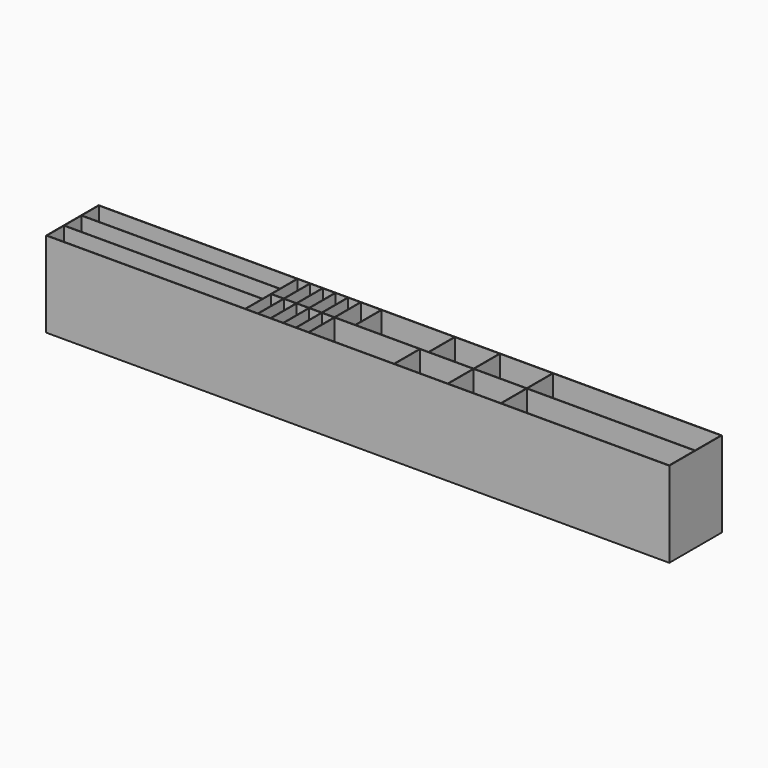
from build123d import *

# Parameters (mm, degrees)
F0_W     = 3914.3432
F0_H     = 413.2072
F0_W_2   = 1244.6
F0_H_2   = 3.4036
F0_W_3   = 3.4036
F0_H_3   = 203.2
F0_H_4   = 199.7964
F1_DEPTH = 533.4
F2_W     = 3914.3432
F2_H     = 413.2072
F3_DEPTH = 3.4036
F4_DEPTH = 330.2


with BuildPart() as f1:
    # F0 (on Top) → F1 (new body)
    with BuildSketch(Plane.XY):
        Rectangle(F0_W, F0_H)
        Polygon((-1953.768, 69.85), (-1953.768, 203.2), (-709.168, 203.2), (-705.7644, 203.2), (-629.5644, 203.2), (-626.1608, 203.2), (-549.9608, 203.2), (-546.5572, 203.2), (-470.3572, 203.2), (-466.9536, 203.2), (-390.7536, 203.2), (-387.35, 203.2), (-311.15, 203.2), (-307.7464, 203.2), (-180.7464, 203.2), (-177.3428, 203.2), (279.8572, 203.2), (283.2608, 203.2), (562.6608, 203.2), (566.0644, 203.2), (896.2644, 203.2), (899.668, 203.2), (1953.768, 203.2), (1953.768, 0), (1953.768, -3.4036), (1953.768, -203.2), (899.668, -203.2), (896.2644, -203.2), (566.0644, -203.2), (562.6608, -203.2), (229.0572, -203.2), (225.6536, -203.2), (-307.7464, -203.2), (-311.15, -203.2), (-387.35, -203.2), (-390.7536, -203.2), (-466.9536, -203.2), (-470.3572, -203.2), (-546.5572, -203.2), (-549.9608, -203.2), (-626.1608, -203.2), (-629.5644, -203.2), (-705.7644, -203.2), (-709.168, -203.2), (-1953.768, -203.2), (-1953.768, -70.3072), (-1953.768, -66.9036), (-1953.768, 66.4464), align=None, mode=Mode.SUBTRACT)
        with Locations((-1331.468, 68.1482)):
            Rectangle(F0_W_2, F0_H_2)
        with Locations((-1331.468, -68.6054)):
            Rectangle(F0_W_2, F0_H_2)
        Polygon((-705.7644, 203.2), (-709.168, 203.2), (-709.168, 69.85), (-709.168, 66.4464), (-709.168, -66.9036), (-709.168, -70.3072), (-709.168, -203.2), (-705.7644, -203.2), (-705.7644, -3.4036), (-705.7644, 0), align=None)
        Polygon((-629.5644, 0), (-705.7644, 0), (-705.7644, -3.4036), (-629.5644, -3.4036), (-626.1608, -3.4036), (-549.9608, -3.4036), (-546.5572, -3.4036), (-470.3572, -3.4036), (-466.9536, -3.4036), (-390.7536, -3.4036), (-387.35, -3.4036), (-311.15, -3.4036), (-311.15, 0), (-387.35, 0), (-390.7536, 0), (-466.9536, 0), (-470.3572, 0), (-546.5572, 0), (-549.9608, 0), (-626.1608, 0), align=None)
        with Locations((-627.8626, 101.6)):
            Rectangle(F0_W_3, F0_H_3)
        with Locations((-627.8626, -103.3018)):
            Rectangle(F0_W_3, F0_H_4)
        with Locations((-548.259, -103.3018)):
            Rectangle(F0_W_3, F0_H_4)
        with Locations((-548.259, 101.6)):
            Rectangle(F0_W_3, F0_H_3)
        with Locations((-468.6554, 101.6)):
            Rectangle(F0_W_3, F0_H_3)
        with Locations((-468.6554, -103.3018)):
            Rectangle(F0_W_3, F0_H_4)
        with Locations((-389.0518, -103.3018)):
            Rectangle(F0_W_3, F0_H_4)
        with Locations((-389.0518, 101.6)):
            Rectangle(F0_W_3, F0_H_3)
        Polygon((-307.7464, 203.2), (-311.15, 203.2), (-311.15, 0), (-311.15, -3.4036), (-311.15, -203.2), (-307.7464, -203.2), (-307.7464, -3.4036), (-307.7464, 0), align=None)
        Polygon((-180.7464, 0), (-307.7464, 0), (-307.7464, -3.4036), (225.6536, -3.4036), (229.0572, -3.4036), (562.6608, -3.4036), (566.0644, -3.4036), (896.2644, -3.4036), (899.668, -3.4036), (1953.768, -3.4036), (1953.768, 0), (899.668, 0), (896.2644, 0), (566.0644, 0), (562.6608, 0), (283.2608, 0), (279.8572, 0), (-177.3428, 0), align=None)
        with Locations((-179.0446, 101.6)):
            Rectangle(F0_W_3, F0_H_3)
        with Locations((281.559, 101.6)):
            Rectangle(F0_W_3, F0_H_3)
        with Locations((227.3554, -103.3018)):
            Rectangle(F0_W_3, F0_H_4)
        with Locations((564.3626, -103.3018)):
            Rectangle(F0_W_3, F0_H_4)
        with Locations((564.3626, 101.6)):
            Rectangle(F0_W_3, F0_H_3)
        with Locations((897.9662, 101.6)):
            Rectangle(F0_W_3, F0_H_3)
        with Locations((897.9662, -103.3018)):
            Rectangle(F0_W_3, F0_H_4)
    extrude(amount=F1_DEPTH)

    # F2 (on face) → F3 (join)
    with BuildSketch(Plane(origin=(0, 0, 0), x_dir=(1, 0, 0), z_dir=(0, 0, -1))):
        Rectangle(F2_W, F2_H)
    extrude(amount=F3_DEPTH)

    # F4 (add): faces of the model
    f4_faces = [f1.faces().sort_by_distance(p)[0] for p in [
        (-1331.468, 136.525, 0),
        (-1331.468, -0.2286, 0),
        (-1331.468, -136.7536, 0),
        (-667.6644, 101.6, 0),
        (-588.0608, 101.6, 0),
        (-508.4572, 101.6, 0),
        (-428.8536, 101.6, 0),
        (-349.25, 101.6, 0),
        (-349.25, -103.3018, 0),
        (-428.8536, -103.3018, 0),
        (-508.4572, -103.3018, 0),
        (-588.0608, -103.3018, 0),
        (-667.6644, -103.3018, 0),
        (-41.0464, -103.3018, 0),
        (-244.2464, 101.6, 0),
        (51.2572, 101.6, 0),
        (422.9608, 101.6, 0),
        (395.859, -103.3018, 0),
    ]]
    extrude(f4_faces, amount=F4_DEPTH)


solid = f1.part
